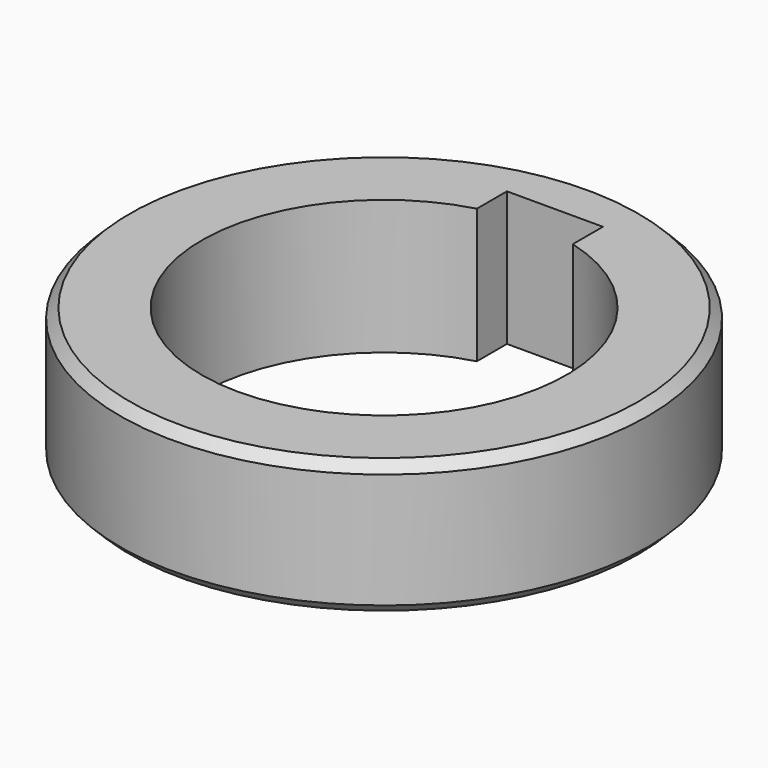
from build123d import *

# Parameters (mm, degrees)
F0_R     = 27.5
F1_DEPTH = 14
F2_SIZE  = 1


with BuildPart() as f1:
    # F0 (on Top) → F1 (new body)
    with BuildSketch(Plane.XY):
        Circle(F0_R)
        with BuildLine():
            ThreePointArc((5, 18.330303), (0, -19), (-5, 18.330303))
            Line((-5, 18.330303), (-5, 22.25))
            Line((-5, 22.25), (0, 22.25))
            Line((0, 22.25), (5, 22.25))
            Line((5, 22.25), (5, 18.330303))
        make_face(mode=Mode.SUBTRACT)
    extrude(amount=F1_DEPTH)

    # F2
    f2_edges = [f1.edges().sort_by_distance(p)[0] for p in [
        (-27.5, 0, 14),
        (-27.5, 0, 0),
    ]]
    chamfer(f2_edges, length=F2_SIZE)


solid = f1.part
